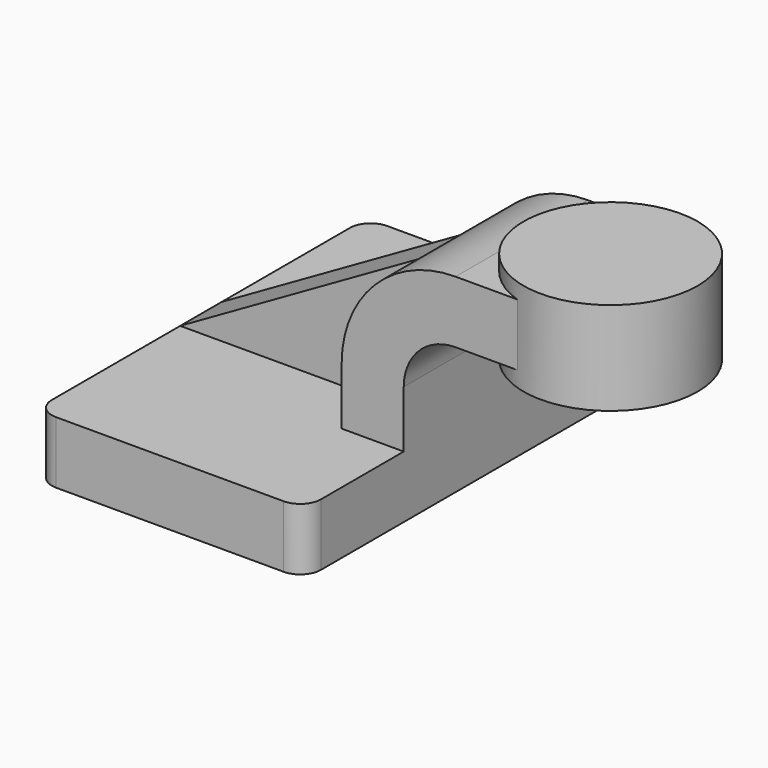
from build123d import *

# Parameters (mm, degrees)
F1_DEPTH = 63.5
F0_W     = 24.0836695663
F0_H     = 19.05
F2_DEPTH = 25.4
F3_DEPTH = 7.9375
F5_R     = 6.35


with BuildPart() as f1:
    # F0 (on Front) → F1 (new body, symmetric)
    with BuildSketch(Plane.XZ):
        Polygon((41.275, -9.525), (41.275, 9.525), (22.225, 9.525), (-41.275, 9.525), (-41.275, -9.525), align=None)
    extrude(amount=F1_DEPTH, both=True)

    # F0 (on Front) → F2 (join, symmetric)
    with BuildSketch(Plane.XZ):
        with Locations((72.3668347831, 52.4002)):
            Rectangle(F0_W, F0_H)
        with BuildLine():
            Line((22.225, 9.525), (41.275, 9.525))
            Line((41.275, 9.525), (41.275, 27.0002))
            ThreePointArc((41.275, 27.0002), (45.9246798487, 38.2255201513), (57.15, 42.8752))
            Line((57.15, 42.8752), (60.325, 42.8752))
            Line((60.325, 42.8752), (60.325, 61.9252))
            Line((60.325, 61.9252), (57.15, 61.9252))
            ThreePointArc((57.15, 61.9252), (43.7847811246, 59.266692673), (32.4542956671, 51.6959043329))
            ThreePointArc((32.4542956671, 51.6959043329), (24.883507327, 40.3654188754), (22.225, 27.0002))
            Line((22.225, 27.0002), (22.225, 9.525))
        make_face()
    extrude(amount=F2_DEPTH, both=True)

    # F0 (on Front) → F3 (join, symmetric)
    with BuildSketch(Plane.XZ):
        with BuildLine():
            Line((-41.275, 9.525), (22.225, 9.525))
            Line((22.225, 9.525), (22.225, 27.0002))
            ThreePointArc((22.225, 27.0002), (24.883507327, 40.3654188754), (32.4542956671, 51.6959043329))
            Line((32.4542956671, 51.6959043329), (-41.275, 9.525))
        make_face()
    extrude(amount=F3_DEPTH, both=True)

    # F0 (on Front) → F4 (revolve)
    with BuildSketch(Plane.XZ):
        Polygon((84.4086695663, 61.9252), (84.4086695663, 42.8752), (84.4086695663, 38.1), (111.125, 38.1), (111.125, 66.675), (84.4086695663, 66.675), align=None)
    revolve(axis=Axis((84.4086695663, 0, 52.3875), (0, 0, 1)))

    # F5
    f5_edges = [f1.edges().sort_by_distance(p)[0] for p in [
        (41.275, -63.5, 0),
        (-41.275, -63.5, 0),
        (-41.275, 63.5, 0),
        (41.275, 63.5, 0),
    ]]
    fillet(f5_edges, radius=F5_R)


solid = f1.part
